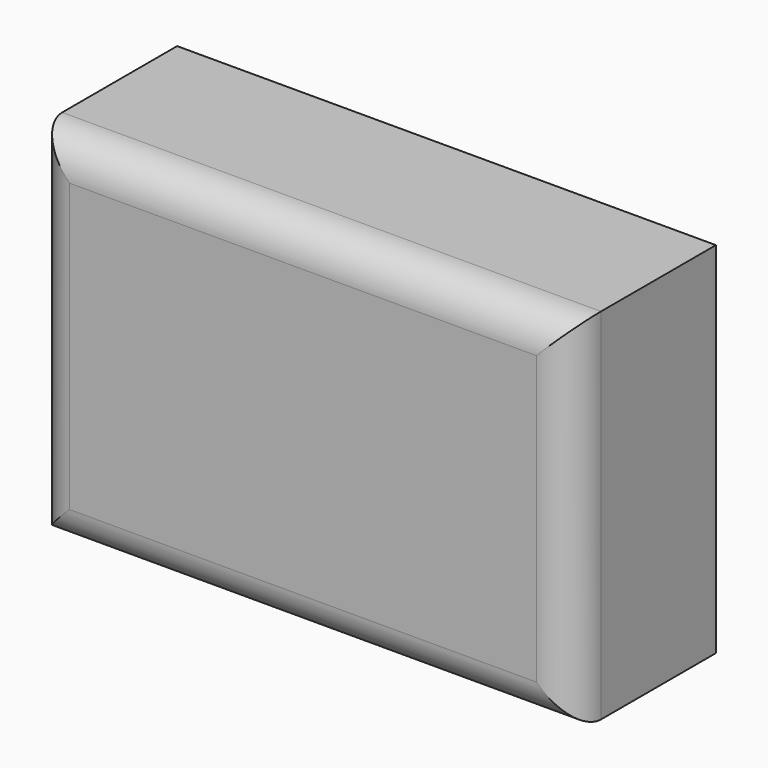
from build123d import *

# Parameters (mm, degrees)
F0_W     = 76.2
F0_H     = 50.8
F1_DEPTH = 25.4
F2_R     = 5.08


with BuildPart() as f1:
    # F0 (on Front) → F1 (new body)
    with BuildSketch(Plane.XZ):
        with Locations((38.1, 25.4)):
            Rectangle(F0_W, F0_H)
    extrude(amount=-F1_DEPTH)

    # F2
    f2_edges = [f1.edges().sort_by_distance(p)[0] for p in [
        (0, 0, 25.4),
        (38.1, 0, 0),
        (76.2, 0, 25.4),
        (38.1, 0, 50.8),
    ]]
    fillet(f2_edges, radius=F2_R)


solid = f1.part
